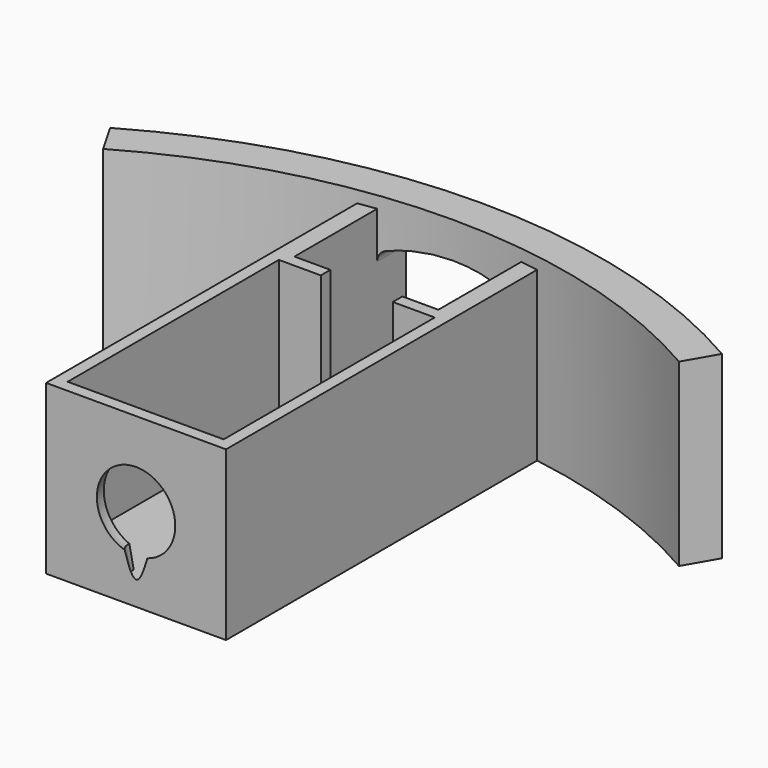
from build123d import *

# Parameters (mm, degrees)
EXTRUDE_DEPTH               = 5
EXTRUDE001_DEPTH            = 5
THICKNESS_T                 = 1
BOX004_W                    = 5
BOX004_H                    = 5
BOX004_DEPTH                = 5
CYLINDER001_W               = 48
CYLINDER001_H               = 15
CYLINDER001_ANGLE           = 60
CYLINDER001_PLACEMENT_ANGLE = 60
CYLINDER_W                  = 51
CYLINDER_H                  = 15
CYLINDER_ANGLE              = 60
CYLINDER_PLACEMENT_ANGLE    = 60
BOX003_W                    = 6
BOX003_H                    = 4
BOX003_DEPTH                = 15
BOX002_W                    = 12
BOX002_H                    = 10
BOX002_DEPTH                = 15
BOX001_W                    = 13
BOX001_H                    = 22
BOX001_DEPTH                = 12
BOX_W                       = 15
BOX_H                       = 34
BOX_DEPTH                   = 14


with BuildPart() as extrude_body:
    with BuildSketch(Plane(origin=(8.5, 45, 6), x_dir=(1, 0, 0), z_dir=(0, 1, 0))):
        with BuildLine():
            Line((5, 4), (-5, 4))
            Line((-5, 4), (-5, -3.142136))
            ThreePointArc((-5, -3.142136), (-2.53653, -3.783978), (0, -4))
            ThreePointArc((0, -4), (2.53653, -3.783978), (5, -3.142136))
            Line((5, -3.142136), (5, 4))
        make_face()
    extrude(amount=EXTRUDE_DEPTH)


with BuildPart() as extrude001:
    with BuildSketch(Plane(origin=(8.5, 45, 6), x_dir=(1, 0, 0), z_dir=(0, 1, 0))):
        with BuildLine():
            Line((5, 4), (-5, 4))
            Line((-5, 4), (-5, -3.142136))
            ThreePointArc((-5, -3.142136), (-2.53653, -3.783978), (0, -4))
            ThreePointArc((0, -4), (2.53653, -3.783978), (5, -3.142136))
            Line((5, -3.142136), (5, 4))
        make_face()
    extrude(amount=EXTRUDE001_DEPTH)


with BuildPart() as fusion001:
    # Thickness base: copy of Extrude body
    add(extrude_body.part)

    # Thickness
    thickness_openings = [fusion001.faces().sort_by_distance(p)[0] for p in [
        (8.5, 50, 5.862901),
    ]]
    offset(amount=THICKNESS_T, openings=thickness_openings)

    # Fusion001: union Extrude body, Extrude001
    add(extrude_body.part)
    add(extrude001.part)


with BuildPart() as fusion001_1:
    # Fusion001 placement: moved
    add(fusion001.part.moved(Location((0, -7, 1))))


with BuildPart() as pin_opening:
    # Box004 → Box004 (new body)
    with BuildSketch(Plane(origin=(6, 38.5, 5), x_dir=(1, 0, 0), z_dir=(0, 0, 1))):
        with Locations((2.5, 2.5)):
            Rectangle(BOX004_W, BOX004_H)
    extrude(amount=BOX004_DEPTH)


with BuildPart() as bottle_wall001:
    # Cylinder001 → Cylinder001 (revolve)
    with BuildSketch(Plane.XZ):
        with Locations((24, 7.5)):
            Rectangle(CYLINDER001_W, CYLINDER001_H)
    revolve(axis=Axis((0, 0, 0), (0, 0, 1)), revolution_arc=CYLINDER001_ANGLE)


with BuildPart() as bottle_wall001_1:
    # Cylinder001 placement: moved
    add(bottle_wall001.part.moved(Location((8.5, -7, 0))).rotate(Axis((8.5, -7, 0), (0, 0, 1)), CYLINDER001_PLACEMENT_ANGLE))


with BuildPart() as cut005:
    # Cylinder → Cylinder (revolve)
    with BuildSketch(Plane.XZ):
        with Locations((25.5, 7.5)):
            Rectangle(CYLINDER_W, CYLINDER_H)
    revolve(axis=Axis((0, 0, 0), (0, 0, 1)), revolution_arc=CYLINDER_ANGLE)


with BuildPart() as cut005_1:
    # Cylinder placement: moved
    add(cut005.part.moved(Location((8.5, -7, 0))).rotate(Axis((8.5, -7, 0), (0, 0, 1)), CYLINDER_PLACEMENT_ANGLE))

    # Cut005: cut bottle_wall001
    add(bottle_wall001_1.part, mode=Mode.SUBTRACT)


with BuildPart() as cut005_2:
    # Cut005 placement: moved
    add(cut005_1.part.moved(Location((0, -2, 0))))


with BuildPart() as cone:
    # Cone → Cone (revolve)
    with BuildSketch(Plane(origin=(8.5, 7, 2), x_dir=(1, 0, 0), z_dir=(0, -1, 0))):
        Polygon((0, 0), (1, 0), (2, 5), (0, 5), align=None)
    revolve(axis=Axis((8.5, 7, 2), (0, 0, 1)))


with BuildPart() as pinhole:
    # Sphere → Sphere (revolve)
    with BuildSketch(Plane(origin=(8.5, 7.25, 7), x_dir=(1, 0, 0), z_dir=(0, -1, 0))):
        with BuildLine():
            ThreePointArc((0, -3.5), (3.5, 0), (0, 3.5))
            Line((0, 3.5), (0, -3.5))
        make_face()
    revolve(axis=Axis((8.5, 7.25, 7), (0, 0, 1)))


with BuildPart() as neck:
    # Box003 → Box003 (new body)
    with BuildSketch(Plane(origin=(5.5, 28, 4), x_dir=(1, 0, 0), z_dir=(0, 0, 1))):
        with Locations((3, 2)):
            Rectangle(BOX003_W, BOX003_H)
    extrude(amount=BOX003_DEPTH)


with BuildPart() as pullbay:
    # Box002 → Box002 (new body)
    with BuildSketch(Plane(origin=(2.5, 30, 2), x_dir=(1, 0, 0), z_dir=(0, 0, 1))):
        with Locations((6, 5)):
            Rectangle(BOX002_W, BOX002_H)
    extrude(amount=BOX002_DEPTH)


with BuildPart() as solenoidbay:
    # Box001 → Box001 (new body)
    with BuildSketch(Plane(origin=(2, 7, 2), x_dir=(1, 0, 0), z_dir=(0, 0, 1))):
        with Locations((6.5, 11)):
            Rectangle(BOX001_W, BOX001_H)
    extrude(amount=BOX001_DEPTH)


with BuildPart() as cut007:
    # Box → Box (new body)
    with BuildSketch(Plane(origin=(1, 6, 0), x_dir=(1, 0, 0), z_dir=(0, 0, 1))):
        with Locations((7.5, 17)):
            Rectangle(BOX_W, BOX_H)
    extrude(amount=BOX_DEPTH)

    # Cut: cut solenoidBay
    add(solenoidbay.part, mode=Mode.SUBTRACT)

    # Cut001: cut pullBay
    add(pullbay.part, mode=Mode.SUBTRACT)

    # Cut002: cut neck
    add(neck.part, mode=Mode.SUBTRACT)

    # Cut003: cut pinhole
    add(pinhole.part, mode=Mode.SUBTRACT)

    # Cut004: cut Cone
    add(cone.part, mode=Mode.SUBTRACT)

    # Fusion: union Cut005
    add(cut005_2.part)

    # Cut006: cut pin_opening
    add(pin_opening.part, mode=Mode.SUBTRACT)

    # Cut007: cut Fusion001
    add(fusion001_1.part, mode=Mode.SUBTRACT)


solid = cut007.part
